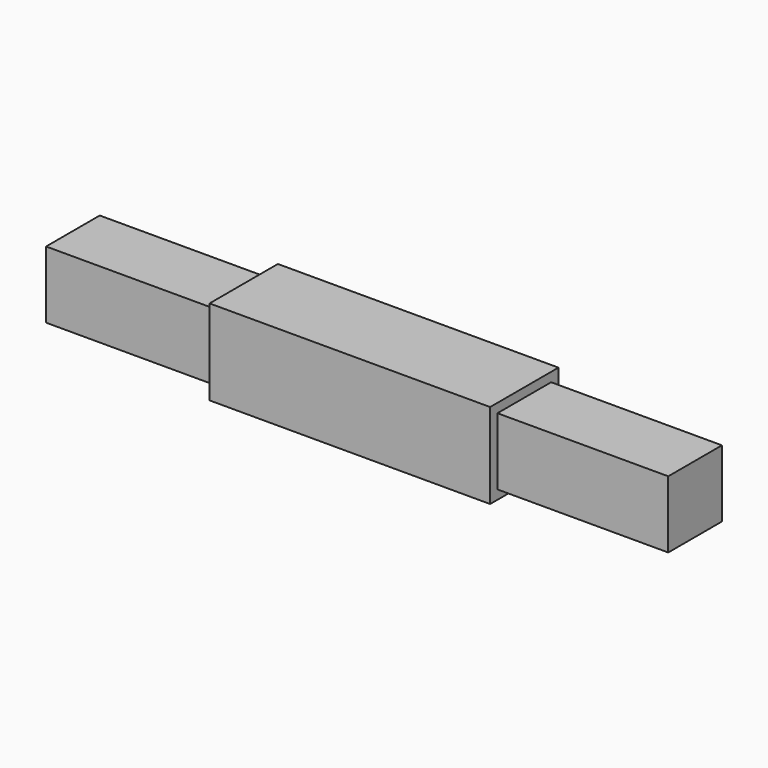
from build123d import *

# Parameters (mm, degrees)
F0_W     = 7
F0_H     = 7
F1_DEPTH = 11.5
F2_W     = 5.5
F2_H     = 5.5
F3_DEPTH = 14


with BuildPart() as f1:
    # F0 (on Right) → F1 (new body)
    with BuildSketch(Plane.YZ):
        with Locations((3.5, 3.5)):
            Rectangle(F0_W, F0_H)
    extrude(amount=F1_DEPTH)

    # F2 (on face) → F3 (join)
    with BuildSketch(Plane.YZ.offset(11.5)):
        with Locations((3.5, 3.5)):
            Rectangle(F2_W, F2_H)
    extrude(amount=F3_DEPTH)

    # F4: F1 across face


with BuildPart() as f1_1:
    add(f1.part)
    add(f1.part.mirror(Plane(origin=(0, 3.5, 3.5), x_dir=(0, 1, 0), z_dir=(-1, 0, 0))))


solid = f1_1.part
